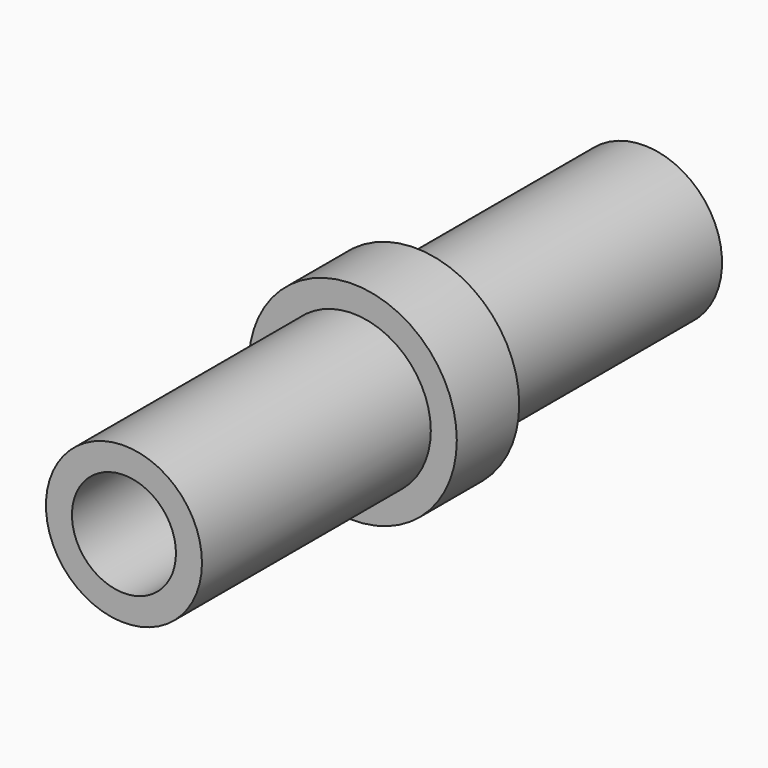
from build123d import *

# Parameters (mm, degrees)
F1_R     = 3
F2_DEPTH = 25
F0_R     = 4
F3_DEPTH = 14
F4_R     = 4
F4_R_2   = 3
F5_DEPTH = 11
F7_D     = 4


with BuildPart() as f2:
    # F1 (on Front) → F2 (new body)
    with BuildSketch(Plane.XZ):
        Circle(F1_R)
    extrude(amount=F2_DEPTH)

    # F0 (on Front) → F3 (join)
    with BuildSketch(Plane.XZ):
        Circle(F0_R)
    extrude(amount=F3_DEPTH)

    # F4 (on face) → F5 (cut)
    with BuildSketch(Plane(origin=(0, 0, 0), x_dir=(-1, 0, 0), z_dir=(0, 1, 0))):
        Circle(F4_R)
        Circle(F4_R_2, mode=Mode.SUBTRACT)
    extrude(amount=-F5_DEPTH, mode=Mode.SUBTRACT)

    # F7 (through all)
    with Locations(Plane(origin=(0, 0, 0), x_dir=(-1, 0, 0), z_dir=(0, 1, 0))):
        with Locations((0, 0)):
            Hole(F7_D / 2)


solid = f2.part
